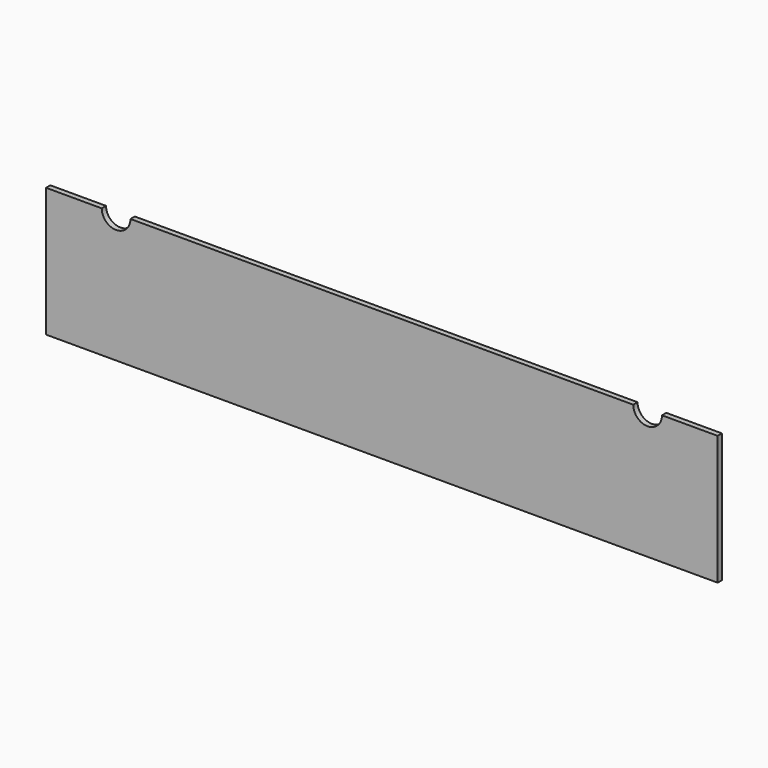
from build123d import *

# Parameters (mm, degrees)
F1_DEPTH = 19.05


with BuildPart() as f1:
    # F0 (on Front) → F1 (new body)
    with BuildSketch(Plane.XZ):
        with BuildLine():
            Line((1187.45, -228.6), (1187.45, 228.6))
            Line((1187.45, 228.6), (990.6, 228.6))
            ThreePointArc((990.6, 228.6), (939.8, 177.8), (889, 228.6))
            Line((889, 228.6), (-889, 228.6))
            ThreePointArc((-889, 228.6), (-939.8, 177.8), (-990.6, 228.6))
            Line((-990.6, 228.6), (-1187.45, 228.6))
            Line((-1187.45, 228.6), (-1187.45, -228.6))
            Line((-1187.45, -228.6), (1187.45, -228.6))
        make_face()
    extrude(amount=F1_DEPTH)


solid = f1.part
